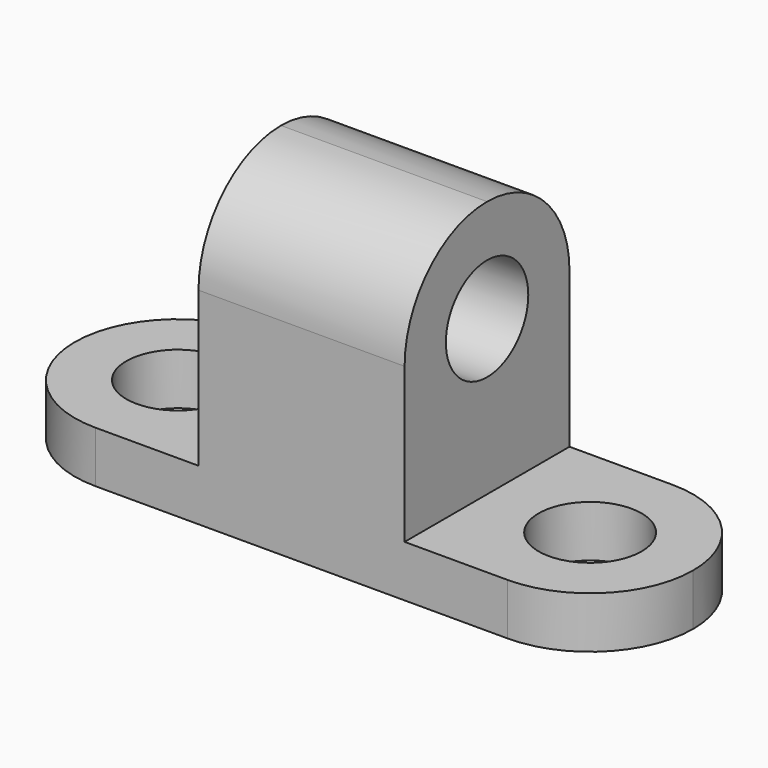
from build123d import *

# Parameters (mm, degrees)
F0_W     = 76.2
F0_H     = 38.1
F1_DEPTH = 25.4
F2_W     = 25.4
F2_H     = 31.75
F3_DEPTH = 31.75
F4_R     = 6.35
F5_DEPTH = 25.4
F6_R     = 6.35
F7_DEPTH = 31.75


with BuildPart() as f1:
    # F0 (on Front) → F1 (new body)
    with BuildSketch(Plane.XZ):
        with Locations((-15.251094, 19.05)):
            Rectangle(F0_W, F0_H)
    extrude(amount=F1_DEPTH)

    # F2 (on face) → F3 (cut)
    with BuildSketch(Plane.XZ.offset(25.4)):
        with Locations((-40.651094, 22.225)):
            Rectangle(F2_W, F2_H)
        with Locations((10.148906, 22.225)):
            Rectangle(F2_W, F2_H)
    extrude(amount=-F3_DEPTH, mode=Mode.SUBTRACT)

    # F4 (on Top) → F5 (cut)
    with BuildSketch(Plane.XY):
        with Locations((10.148906, -12.7)):
            Circle(F4_R)
        with Locations((-40.651094, -12.7)):
            Circle(F4_R)
        with BuildLine():
            ThreePointArc((-40.651094, -25.4), (-49.63135, -21.680256), (-53.351094, -12.7))
            Line((-53.351094, -12.7), (-53.351094, -25.535107))
            Line((-53.351094, -25.535107), (-40.651094, -25.4))
        make_face()
        with BuildLine():
            ThreePointArc((-53.351094, -12.7), (-49.63135, -3.719744), (-40.651094, 0))
            Line((-40.651094, 0), (-53.351094, 0))
            Line((-53.351094, 0), (-53.351094, -12.7))
        make_face()
        with BuildLine():
            Line((22.848906, -25.4), (22.848906, -12.7))
            ThreePointArc((22.848906, -12.7), (19.129162, -21.680256), (10.148906, -25.4))
            Line((10.148906, -25.4), (22.848906, -25.4))
        make_face()
        with BuildLine():
            ThreePointArc((10.148906, 0), (19.129162, -3.719744), (22.848906, -12.7))
            Line((22.848906, -12.7), (22.848906, 0))
            Line((22.848906, 0), (10.148906, 0))
        make_face()
    extrude(amount=F5_DEPTH, mode=Mode.SUBTRACT)

    # F6 (on face) → F7 (cut)
    with BuildSketch(Plane.YZ.offset(-2.551094)):
        with Locations((-12.7, 25.4)):
            Circle(F6_R)
        with BuildLine():
            Line((0, 38.1), (-12.7, 38.1))
            ThreePointArc((-12.7, 38.1), (-3.719744, 34.380256), (0, 25.4))
            Line((0, 25.4), (0, 38.1))
        make_face()
        with BuildLine():
            ThreePointArc((-25.4, 25.4), (-21.680256, 34.380256), (-12.7, 38.1))
            Line((-12.7, 38.1), (-25.4, 38.1))
            Line((-25.4, 38.1), (-25.4, 25.4))
        make_face()
    extrude(amount=-F7_DEPTH, mode=Mode.SUBTRACT)


solid = f1.part
